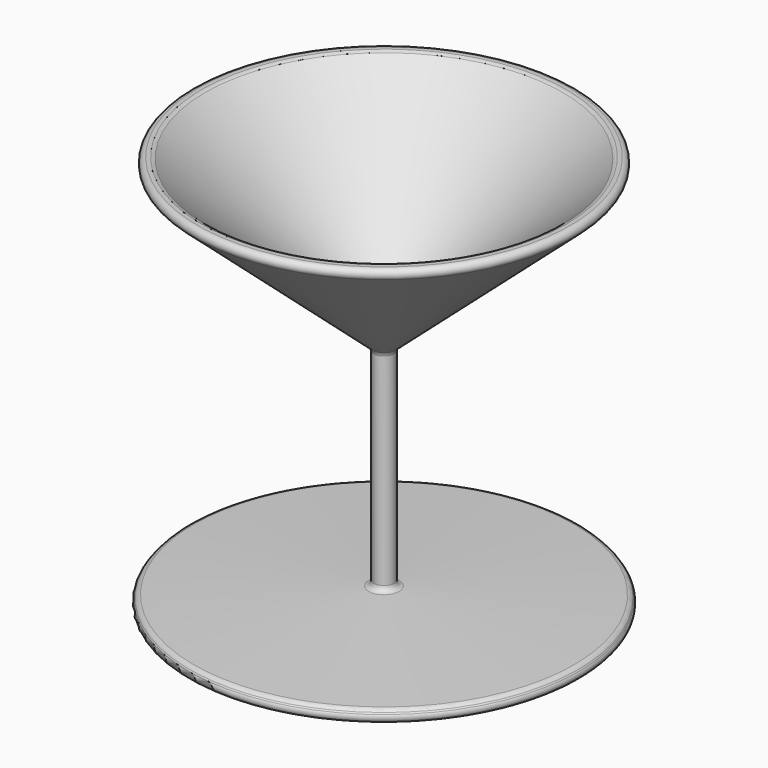
from build123d import *

# Parameters (mm, degrees)
F2_R = 1.337


with BuildPart() as f1:
    # F0 (on Front) → F1 (revolve)
    with BuildSketch(Plane.XZ):
        Polygon((-50, -57.31441), (0, -57.31441), (0, 2.204793), (-45, 41.891062), (-50, 41.891062), (-2.5, 0), (-2.5, -52.31441), (-48.197224, -54.31441), align=None)
    revolve(axis=Axis((0, 0, -3.351647), (0, 0, -1)))

    # F2
    f2_edges = [f1.edges().sort_by_distance(p)[0] for p in [
        (50, 0, 41.891062),
        (45, 0, 41.891062),
        (48.197224, 0, -54.31441),
        (50, 0, -57.31441),
        (2.5, 0, -52.31441),
        (2.5, 0, 0),
    ]]
    fillet(f2_edges, radius=F2_R)


solid = f1.part
